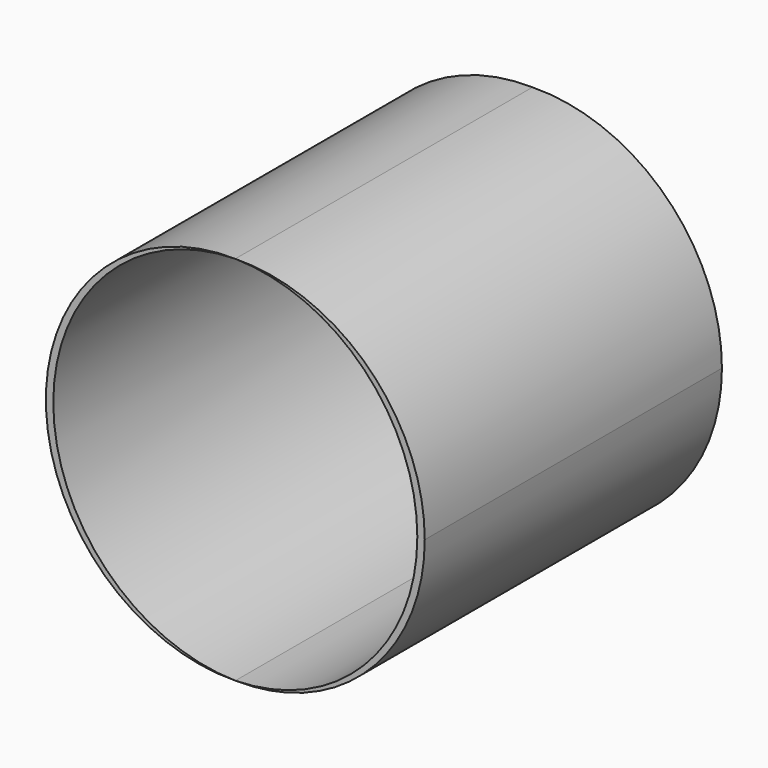
from build123d import *

# Parameters (mm, degrees)
F1_DEPTH = 10


with BuildPart() as f1:
    # F0 (on Front) → F1 (new body)
    with BuildSketch(Plane.XZ):
        with BuildLine():
            ThreePointArc((39.900005, 44.999), (43.370722, 43.500002), (44.80001, 40))
            ThreePointArc((44.80001, 40), (43.370722, 36.499998), (39.900005, 35.001))
            ThreePointArc((39.900005, 35.001), (43.500002, 36.429288), (45, 40))
            ThreePointArc((45, 40), (43.500002, 43.570712), (39.900005, 44.999))
        make_face()
        with BuildLine():
            ThreePointArc((39.900005, 35.001), (35, 40), (39.900005, 44.999))
            ThreePointArc((39.900005, 44.999), (34.80001, 40), (39.900005, 35.001))
        make_face()
    extrude(amount=F1_DEPTH)


solid = f1.part
